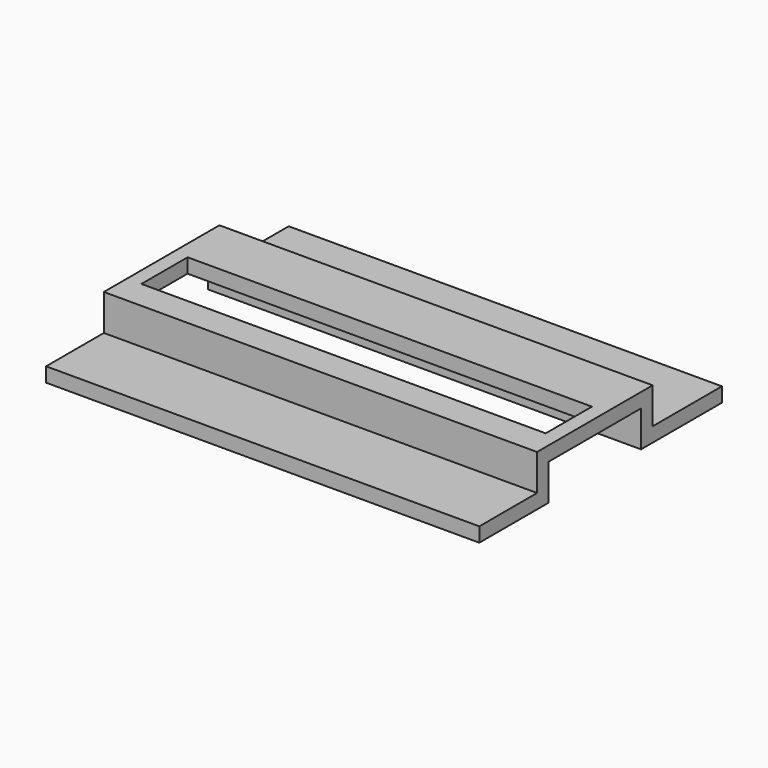
from build123d import *

# Parameters (mm, degrees)
BOX016_W     = 28
BOX016_H     = 4
BOX016_DEPTH = 10
BOX004_W     = 30
BOX004_H     = 8
BOX004_DEPTH = 2.5
BOX003_W     = 30
BOX003_H     = 10
BOX003_DEPTH = 3.5
BOX002_W     = 30
BOX002_H     = 21
BOX002_DEPTH = 1


with BuildPart() as cubo016:
    # Box016 → Box016 (new body)
    with BuildSketch(Plane(origin=(-13, -14, 0), x_dir=(1, 0, 0), z_dir=(0, 0, 1))):
        with Locations((14, 2)):
            Rectangle(BOX016_W, BOX016_H)
    extrude(amount=BOX016_DEPTH)


with BuildPart() as cubo004:
    # Box004 → Box004 (new body)
    with BuildSketch(Plane(origin=(-14, -15, 0), x_dir=(1, 0, 0), z_dir=(0, 0, 1))):
        with Locations((15, 4)):
            Rectangle(BOX004_W, BOX004_H)
    extrude(amount=BOX004_DEPTH)


with BuildPart() as cubo003:
    # Box003 → Box003 (new body)
    with BuildSketch(Plane(origin=(-14, -16, 0), x_dir=(1, 0, 0), z_dir=(0, 0, 1))):
        with Locations((15, 5)):
            Rectangle(BOX003_W, BOX003_H)
    extrude(amount=BOX003_DEPTH)


with BuildPart() as cut008:
    # Box002 → Box002 (new body)
    with BuildSketch(Plane(origin=(-14, -21, 0), x_dir=(1, 0, 0), z_dir=(0, 0, 1))):
        with Locations((15, 10.5)):
            Rectangle(BOX002_W, BOX002_H)
    extrude(amount=BOX002_DEPTH)

    # Fusion001: union Cubo003
    add(cubo003.part)

    # Cut006: cut Cubo004
    add(cubo004.part, mode=Mode.SUBTRACT)

    # Cut008: cut Cubo016
    add(cubo016.part, mode=Mode.SUBTRACT)


solid = cut008.part
